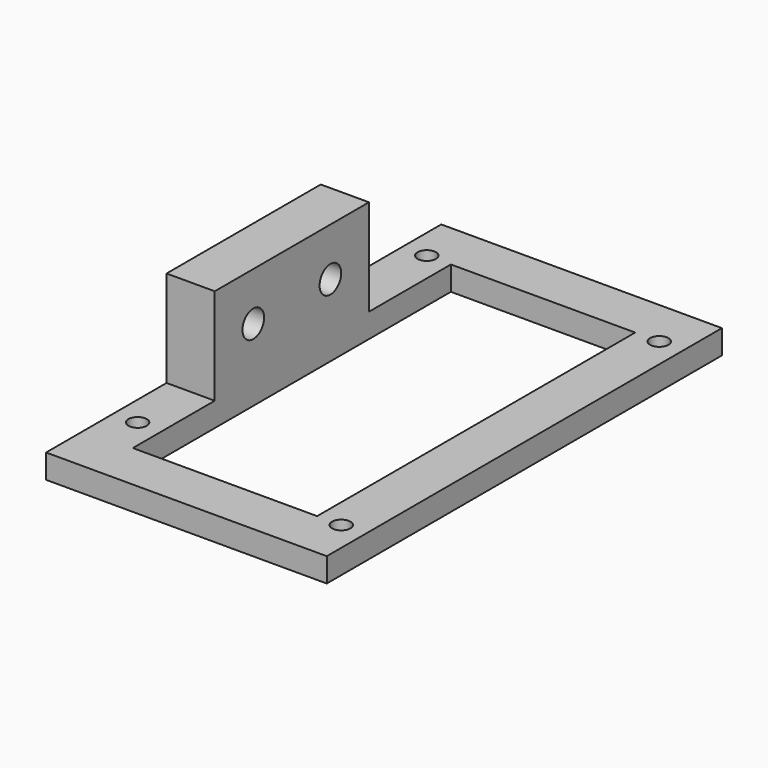
from build123d import *

# Parameters (mm, degrees)
F0_R     = 1.9
F1_DEPTH = 5
F0_W     = 10
F0_H     = 40
F2_DEPTH = 25
F3_R     = 2.8
F4_DEPTH = 10


with BuildPart() as f1:
    # F0 (on Top) → F1 (new body)
    with BuildSketch(Plane.XY):
        Polygon((20.990842, 38.977277), (-37.259158, 38.977277), (-37.259158, 7.727277), (-27.259158, 7.727277), (-27.259158, 28.977277), (10.990842, 28.977277), (10.990842, -53.522723), (-27.259158, -53.522723), (-27.259158, -32.272723), (-37.259158, -32.272723), (-37.259158, -63.522723), (20.990842, -63.522723), align=None)
        with Locations((-32.259158, -46.022723)):
            Circle(F0_R, mode=Mode.SUBTRACT)
        with Locations((15.990842, -53.522723)):
            Circle(F0_R, mode=Mode.SUBTRACT)
        with Locations((-32.259158, 28.977277)):
            Circle(F0_R, mode=Mode.SUBTRACT)
        with Locations((15.990842, 28.977277)):
            Circle(F0_R, mode=Mode.SUBTRACT)
    extrude(amount=F1_DEPTH)

    # F0 (on Top) → F2 (join)
    with BuildSketch(Plane.XY):
        with Locations((-32.259158, -12.272723)):
            Rectangle(F0_W, F0_H)
    extrude(amount=F2_DEPTH)

    # F3 (on face) → F4 (cut, through all)
    with BuildSketch(Plane(origin=(-37.259158, 0, 0), x_dir=(0, -1, 0), z_dir=(-1, 0, 0))):
        with Locations((2.272723, 15)):
            Circle(F3_R)
        with Locations((22.272723, 15)):
            Circle(F3_R)
    extrude(amount=-F4_DEPTH, mode=Mode.SUBTRACT)


solid = f1.part
